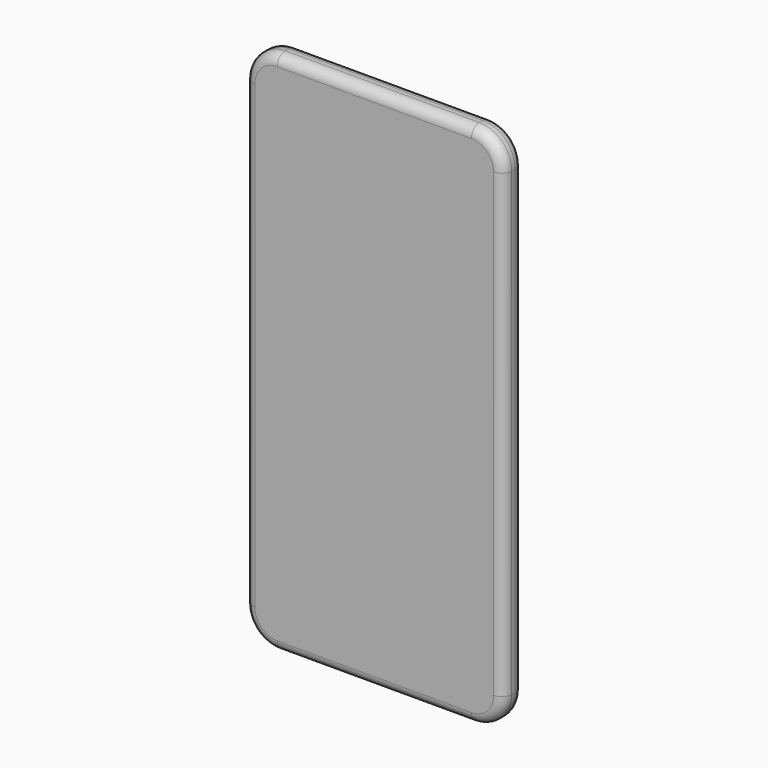
from build123d import *

# Parameters (mm, degrees)
F1_DEPTH = 7.3
F2_R     = 3


with BuildPart() as f1:
    # F0 (on Front) → F1 (new body)
    with BuildSketch(Plane.XZ):
        with BuildLine():
            Line((29.231137, 79.1), (-29.231137, 79.1))
            ThreePointArc((-29.231137, 79.1), (-36.103411, 76.253411), (-38.95, 69.381137))
            Line((-38.95, 69.381137), (-38.95, -69.381137))
            ThreePointArc((-38.95, -69.381137), (-36.103411, -76.253411), (-29.231137, -79.1))
            Line((-29.231137, -79.1), (29.231137, -79.1))
            ThreePointArc((29.231137, -79.1), (36.103411, -76.253411), (38.95, -69.381137))
            Line((38.95, -69.381137), (38.95, 69.381137))
            ThreePointArc((38.95, 69.381137), (36.103411, 76.253411), (29.231137, 79.1))
        make_face()
    extrude(amount=F1_DEPTH)

    # F2
    f2_edges = [f1.edges().sort_by_distance(p)[0] for p in [
        (38.95, -7.3, 0),
        (36.103411, -7.3, 76.253411),
        (0, -7.3, 79.1),
        (-36.103411, -7.3, 76.253411),
        (-38.95, -7.3, 0),
        (-36.103411, -7.3, -76.253411),
        (0, -7.3, -79.1),
        (36.103411, -7.3, -76.253411),
        (38.95, 0, 0),
        (36.103411, 0, 76.253411),
        (0, 0, 79.1),
        (-36.103411, 0, 76.253411),
        (-38.95, 0, 0),
        (-36.103411, 0, -76.253411),
        (0, 0, -79.1),
        (36.103411, 0, -76.253411),
    ]]
    fillet(f2_edges, radius=F2_R)


solid = f1.part
